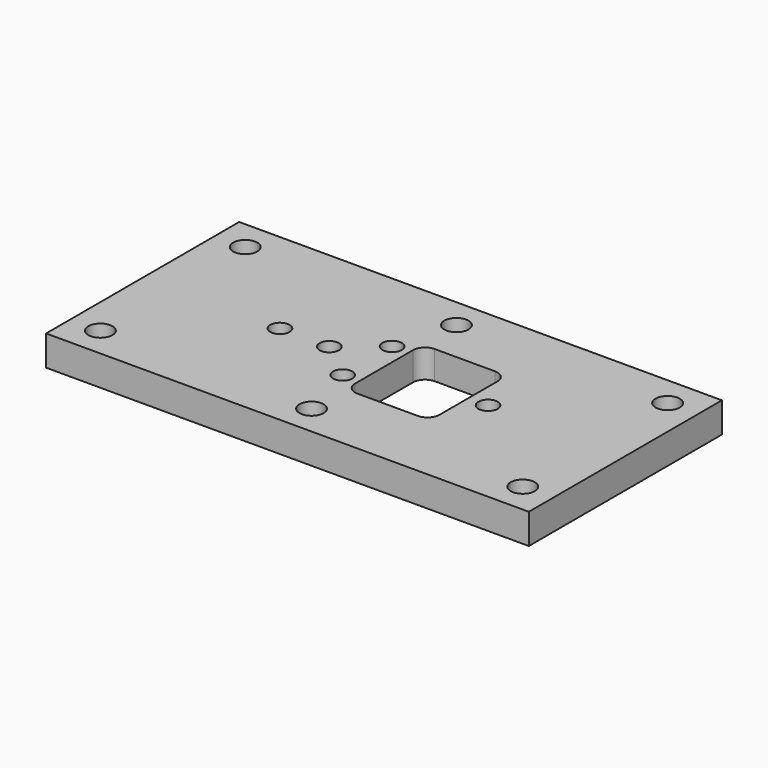
from build123d import *

# Parameters (mm, degrees)
F0_W      = 101.6
F0_H      = 50.8
F1_DEPTH  = 6.35
F3_DEPTH  = 0.381
F5_DEPTH  = 5.969
F6_R      = 2.54
F7_DEPTH  = 6.35
F8_R      = 2.032
F9_DEPTH  = 5.08
F10_R     = 1.905
F11_DEPTH = 0.381
F12_R     = 0.8001
F13_DEPTH = 0.508


with BuildPart() as f1:
    # F0 (on Top) → F1 (new body)
    with BuildSketch(Plane.XY):
        with Locations((-0.471200794, -2.8610218682)):
            Rectangle(F0_W, F0_H)
    extrude(amount=F1_DEPTH)

    # F2 (on face) → F3 (cut)
    with BuildSketch(Plane(origin=(0, 0, 0), x_dir=(1, 0, 0), z_dir=(0, 0, -1))):
        with BuildLine():
            Line((-38.825200794, -10.0929781318), (-38.825200794, -6.9179781318))
            ThreePointArc((-38.825200794, -6.9179781318), (-41.0702648242, -12.3380421621), (-35.650200794, -10.0929781318))
            Line((-35.650200794, -10.0929781318), (-38.825200794, -10.0929781318))
        make_face()
        with BuildLine():
            Line((37.882799206, -10.0929781318), (37.882799206, -6.9179781318))
            ThreePointArc((37.882799206, -6.9179781318), (35.6377351758, -7.8479141016), (34.707799206, -10.0929781318))
            Line((34.707799206, -10.0929781318), (37.882799206, -10.0929781318))
        make_face()
        with BuildLine():
            ThreePointArc((41.057799206, -10.0929781318), (40.1278632363, -7.8479141016), (37.882799206, -6.9179781318))
            Line((37.882799206, -6.9179781318), (37.882799206, -10.0929781318))
            Line((37.882799206, -10.0929781318), (34.707799206, -10.0929781318))
            ThreePointArc((34.707799206, -10.0929781318), (37.882799206, -13.2679781318), (41.057799206, -10.0929781318))
        make_face()
        with BuildLine():
            Line((34.707799206, 15.8150218682), (-35.650200794, 15.8150218682))
            ThreePointArc((-35.650200794, 15.8150218682), (-36.5801367637, 13.5699578379), (-38.825200794, 12.6400218682))
            Line((-38.825200794, 12.6400218682), (-38.825200794, -6.9179781318))
            ThreePointArc((-38.825200794, -6.9179781318), (-36.5801367637, -7.8479141016), (-35.650200794, -10.0929781318))
            Line((-35.650200794, -10.0929781318), (34.707799206, -10.0929781318))
            ThreePointArc((34.707799206, -10.0929781318), (35.6377351758, -7.8479141016), (37.882799206, -6.9179781318))
            Line((37.882799206, -6.9179781318), (37.882799206, 12.6400218682))
            ThreePointArc((37.882799206, 12.6400218682), (35.6377351758, 13.5699578379), (34.707799206, 15.8150218682))
        make_face()
        with BuildLine():
            ThreePointArc((-35.650200794, -10.0929781318), (-36.5801367637, -7.8479141016), (-38.825200794, -6.9179781318))
            Line((-38.825200794, -6.9179781318), (-38.825200794, -10.0929781318))
            Line((-38.825200794, -10.0929781318), (-35.650200794, -10.0929781318))
        make_face()
        with BuildLine():
            ThreePointArc((41.057799206, 15.8150218682), (37.882799206, 18.9900218682), (34.707799206, 15.8150218682))
            Line((34.707799206, 15.8150218682), (37.882799206, 15.8150218682))
            Line((37.882799206, 15.8150218682), (37.882799206, 12.6400218682))
            ThreePointArc((37.882799206, 12.6400218682), (40.1278632363, 13.5699578379), (41.057799206, 15.8150218682))
        make_face()
        with BuildLine():
            Line((37.882799206, 15.8150218682), (34.707799206, 15.8150218682))
            ThreePointArc((34.707799206, 15.8150218682), (35.6377351758, 13.5699578379), (37.882799206, 12.6400218682))
            Line((37.882799206, 12.6400218682), (37.882799206, 15.8150218682))
        make_face()
        with BuildLine():
            Line((-35.650200794, 15.8150218682), (-38.825200794, 15.8150218682))
            Line((-38.825200794, 15.8150218682), (-38.825200794, 12.6400218682))
            ThreePointArc((-38.825200794, 12.6400218682), (-36.5801367637, 13.5699578379), (-35.650200794, 15.8150218682))
        make_face()
        with BuildLine():
            Line((-38.825200794, 12.6400218682), (-38.825200794, 15.8150218682))
            Line((-38.825200794, 15.8150218682), (-35.650200794, 15.8150218682))
            ThreePointArc((-35.650200794, 15.8150218682), (-41.0702648242, 18.0600858984), (-38.825200794, 12.6400218682))
        make_face()
    extrude(amount=-F3_DEPTH, mode=Mode.SUBTRACT)

    # F4 (on face) → F5 (cut, through all)
    with BuildSketch(Plane(origin=(0, 0, 0.381), x_dir=(1, 0, 0), z_dir=(0, 0, -1))):
        with BuildLine():
            Line((14.768799206, 13.0210218682), (2.068799206, 13.0210218682))
            ThreePointArc((2.068799206, 13.0210218682), (0.2727479818, 12.2770730924), (-0.471200794, 10.4810218682))
            Line((-0.471200794, 10.4810218682), (-0.471200794, -4.7589781318))
            ThreePointArc((-0.471200794, -4.7589781318), (0.2727479818, -6.555029356), (2.068799206, -7.2989781318))
            Line((2.068799206, -7.2989781318), (14.768799206, -7.2989781318))
            ThreePointArc((14.768799206, -7.2989781318), (16.5648504302, -6.555029356), (17.308799206, -4.7589781318))
            Line((17.308799206, -4.7589781318), (17.308799206, 10.4810218682))
            ThreePointArc((17.308799206, 10.4810218682), (16.5648504302, 12.2770730924), (14.768799206, 13.0210218682))
        make_face()
    extrude(amount=-F5_DEPTH, mode=Mode.SUBTRACT)

    # F6 (on face) → F7 (cut, through all)
    with BuildSketch(Plane(origin=(0, 0, 0), x_dir=(1, 0, 0), z_dir=(0, 0, -1))):
        with Locations((-44.921200794, 21.9110218682)):
            Circle(F6_R)
        with Locations((43.978799206, 21.9110218682)):
            Circle(F6_R)
        with Locations((43.978799206, -16.1889781318)):
            Circle(F6_R)
        with Locations((-0.471200794, -16.1889781318)):
            Circle(F6_R)
        with Locations((-44.921200794, -16.1889781318)):
            Circle(F6_R)
        with Locations((-0.471200794, 21.9110218682)):
            Circle(F6_R)
    extrude(amount=-F7_DEPTH, mode=Mode.SUBTRACT)

    # F8 (on face) → F9 (cut)
    with BuildSketch(Plane.XY.offset(6.35)):
        with Locations((-22.371080794, -2.8610218682)):
            Circle(F8_R)
        with Locations((-11.972320794, -2.8610218682)):
            Circle(F8_R)
        with Locations((-3.971320794, 3.6388381318)):
            Circle(F8_R)
        with Locations((-3.971320794, -9.3608818682)):
            Circle(F8_R)
        with Locations((21.428679206, -2.8610218682)):
            Circle(F8_R)
    extrude(amount=-F9_DEPTH, mode=Mode.SUBTRACT)

    # F10 (on face) → F11 (cut)
    with BuildSketch(Plane(origin=(0, 0, 0.381), x_dir=(1, 0, 0), z_dir=(0, 0, -1))):
        with Locations((-22.366000794, 2.8610218682)):
            Circle(F10_R)
        with Locations((-11.977400794, 2.8610218682)):
            Circle(F10_R)
        with Locations((-3.976400794, 9.3634218682)):
            Circle(F10_R)
        with Locations((-3.976400794, -3.6413781318)):
            Circle(F10_R)
        with Locations((21.423599206, 2.8610218682)):
            Circle(F10_R)
    extrude(amount=-F11_DEPTH, mode=Mode.SUBTRACT)

    # F12 (on face) → F13 (cut, through all)
    with BuildSketch(Plane(origin=(0, 0, 0.762), x_dir=(1, 0, 0), z_dir=(0, 0, -1))):
        with Locations((-22.366000794, 2.8610218682)):
            Circle(F12_R)
        with Locations((-11.977400794, 2.8610218682)):
            Circle(F12_R)
        with Locations((-3.976400794, 9.3634218682)):
            Circle(F12_R)
        with Locations((-3.976400794, -3.6413781318)):
            Circle(F12_R)
        with Locations((21.423599206, 2.8610218682)):
            Circle(F12_R)
    extrude(amount=-F13_DEPTH, mode=Mode.SUBTRACT)


solid = f1.part
